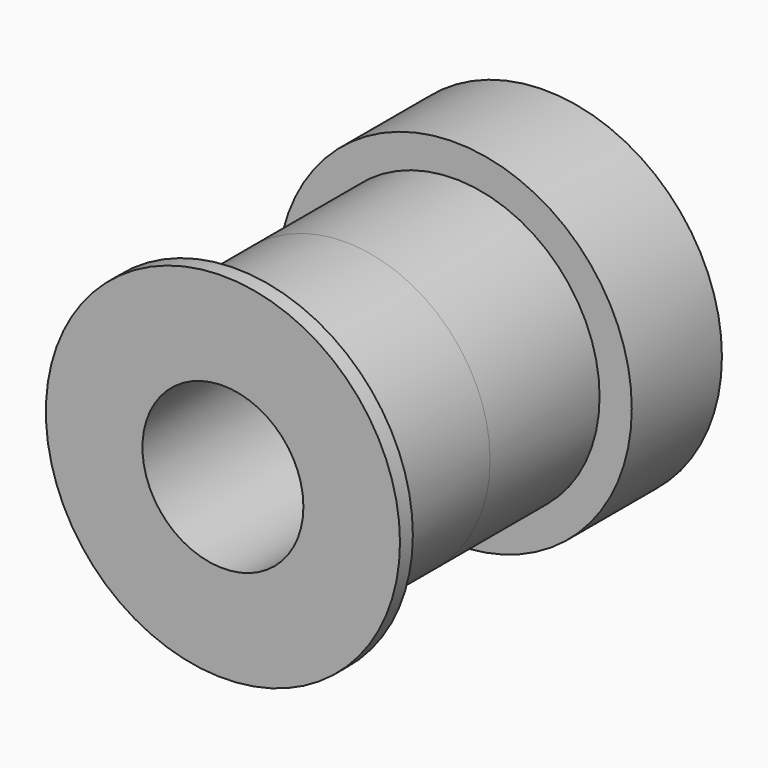
from build123d import *

# Parameters (mm, degrees)
F0_R     = 9
F1_DEPTH = 9.5
F2_R     = 11
F3_DEPTH = 1
F5_DEPTH = 6
F6_R     = 5
F7_DEPTH = 25


with BuildPart() as f1:
    # F0 (on Front) → F1 (new body)
    with BuildSketch(Plane.XZ):
        Circle(F0_R)
    extrude(amount=F1_DEPTH)

    # F2 (on face) → F3 (join)
    with BuildSketch(Plane.XZ.offset(9.5)):
        Circle(F2_R)
    extrude(amount=-F3_DEPTH)

    # F4: F1 across plane


with BuildPart() as f1_1:
    add(f1.part)
    add(f1.part.mirror(Plane.XZ))

    # F5 (add): a face of the model
    f5_faces = [f1_1.faces().sort_by_distance(p)[0] for p in [
        (0, 9.5, 0),
    ]]
    extrude(f5_faces, amount=F5_DEPTH)

    # F6 (on face) → F7 (cut)
    with BuildSketch(Plane.XZ.offset(9.5)):
        Circle(F6_R)
    extrude(amount=-F7_DEPTH, mode=Mode.SUBTRACT)


solid = f1_1.part
